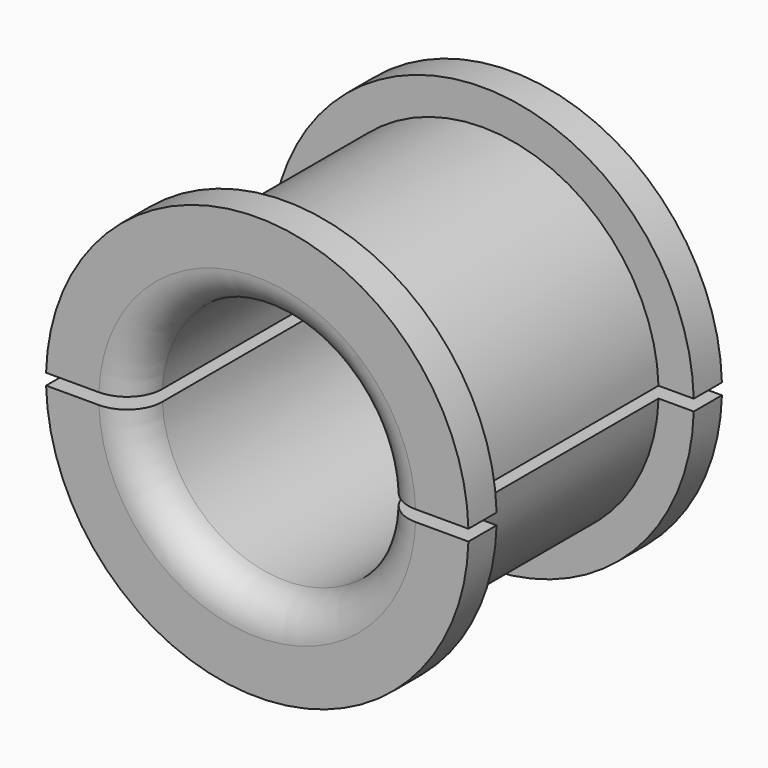
from build123d import *

# Parameters (mm, degrees)
F1_DEPTH = 11.1125
F2_DEPTH = 1.5875
F3_START = 11.1125
F3_DEPTH = 1.5875
F4_R     = 1.5875
F4_2_R   = 1.5875


with BuildPart() as f1:
    # F0 (on Front) → F1 (new body)
    with BuildSketch(Plane.XZ):
        with BuildLine():
            Line((5.5504412494, 0.254), (7.9334349591, 0.254))
            ThreePointArc((7.9334349591, 0.254), (0, 7.9375), (-7.9334349591, 0.254))
            Line((-7.9334349591, 0.254), (-5.5504412494, 0.254))
            ThreePointArc((-5.5504412494, 0.254), (0, 5.55625), (5.5504412494, 0.254))
        make_face()
    extrude(amount=F1_DEPTH)

    # F0 (on Front) → F2, piece 2 (join)
    with BuildSketch(Plane.XZ):
        with BuildLine():
            Line((5.5504412494, 0.254), (7.9334349591, 0.254))
            ThreePointArc((7.9334349591, 0.254), (0, 7.9375), (-7.9334349591, 0.254))
            Line((-7.9334349591, 0.254), (-5.5504412494, 0.254))
            ThreePointArc((-5.5504412494, 0.254), (0, 5.55625), (5.5504412494, 0.254))
        make_face()
        with BuildLine():
            Line((7.9334349591, 0.254), (9.521612731, 0.254))
            ThreePointArc((9.521612731, 0.254), (0, 9.525), (-9.521612731, 0.254))
            Line((-9.521612731, 0.254), (-7.9334349591, 0.254))
            ThreePointArc((-7.9334349591, 0.254), (0, 7.9375), (7.9334349591, 0.254))
        make_face()
    extrude(amount=-F2_DEPTH)

    # F0 (on Front) → F3 (join)
    with BuildSketch(Plane.XZ.offset(F3_START)):
        with BuildLine():
            Line((7.9334349591, 0.254), (9.521612731, 0.254))
            ThreePointArc((9.521612731, 0.254), (0, 9.525), (-9.521612731, 0.254))
            Line((-9.521612731, 0.254), (-7.9334349591, 0.254))
            ThreePointArc((-7.9334349591, 0.254), (0, 7.9375), (7.9334349591, 0.254))
        make_face()
        with BuildLine():
            Line((5.5504412494, 0.254), (7.9334349591, 0.254))
            ThreePointArc((7.9334349591, 0.254), (0, 7.9375), (-7.9334349591, 0.254))
            Line((-7.9334349591, 0.254), (-5.5504412494, 0.254))
            ThreePointArc((-5.5504412494, 0.254), (0, 5.55625), (5.5504412494, 0.254))
        make_face()
    extrude(amount=F3_DEPTH)

    # F4
    f4_edges = [f1.edges().sort_by_distance(p)[0] for p in [
        (0, 1.5875, 5.55625),
        (0, -12.7, 5.55625),
    ]]
    fillet(f4_edges, radius=F4_R)


with BuildPart() as f1b:
    # F0 (on Front) → F1, piece 2 (new body)
    with BuildSketch(Plane.XZ):
        with BuildLine():
            Line((-5.5504412494, -0.254), (-7.9334349591, -0.254))
            ThreePointArc((-7.9334349591, -0.254), (0, -7.9375), (7.9334349591, -0.254))
            Line((7.9334349591, -0.254), (5.5504412494, -0.254))
            ThreePointArc((5.5504412494, -0.254), (0, -5.55625), (-5.5504412494, -0.254))
        make_face()
    extrude(amount=F1_DEPTH)

    # F0 (on Front) → F2 (join)
    with BuildSketch(Plane.XZ):
        with BuildLine():
            Line((-5.5504412494, -0.254), (-7.9334349591, -0.254))
            ThreePointArc((-7.9334349591, -0.254), (0, -7.9375), (7.9334349591, -0.254))
            Line((7.9334349591, -0.254), (5.5504412494, -0.254))
            ThreePointArc((5.5504412494, -0.254), (0, -5.55625), (-5.5504412494, -0.254))
        make_face()
        with BuildLine():
            Line((-7.9334349591, -0.254), (-9.521612731, -0.254))
            ThreePointArc((-9.521612731, -0.254), (0, -9.525), (9.521612731, -0.254))
            Line((9.521612731, -0.254), (7.9334349591, -0.254))
            ThreePointArc((7.9334349591, -0.254), (0, -7.9375), (-7.9334349591, -0.254))
        make_face()
    extrude(amount=-F2_DEPTH)

    # F0 (on Front) → F3, piece 2 (join)
    with BuildSketch(Plane.XZ.offset(F3_START)):
        with BuildLine():
            Line((-7.9334349591, -0.254), (-9.521612731, -0.254))
            ThreePointArc((-9.521612731, -0.254), (0, -9.525), (9.521612731, -0.254))
            Line((9.521612731, -0.254), (7.9334349591, -0.254))
            ThreePointArc((7.9334349591, -0.254), (0, -7.9375), (-7.9334349591, -0.254))
        make_face()
        with BuildLine():
            Line((-5.5504412494, -0.254), (-7.9334349591, -0.254))
            ThreePointArc((-7.9334349591, -0.254), (0, -7.9375), (7.9334349591, -0.254))
            Line((7.9334349591, -0.254), (5.5504412494, -0.254))
            ThreePointArc((5.5504412494, -0.254), (0, -5.55625), (-5.5504412494, -0.254))
        make_face()
    extrude(amount=F3_DEPTH)

    # F4#2
    f4_2_edges = [f1b.edges().sort_by_distance(p)[0] for p in [
        (0, 1.5875, -5.55625),
        (0, -12.7, -5.55625),
    ]]
    fillet(f4_2_edges, radius=F4_2_R)


solid = Compound([f1.part, f1b.part])
